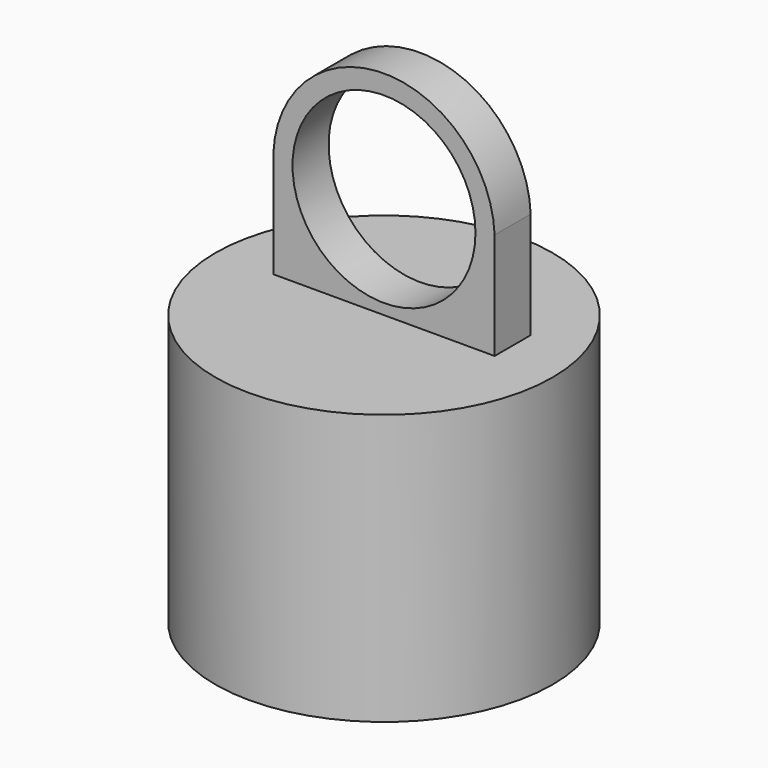
from build123d import *

# Parameters (mm, degrees)
F0_R     = 29.1968279335
F1_DEPTH = 46.8261539936
F2_W     = 38.307864219
F2_H     = 7.8112371266
F3_DEPTH = 36.9160473347
F4_R     = 15.8391842582
F5_DEPTH = 29.1978279335
F6_T     = -2.54


with BuildPart() as f1:
    # F0 (on Top) → F1 (new body)
    with BuildSketch(Plane.XY):
        Circle(F0_R)
    extrude(amount=F1_DEPTH)

    # F2 (on face) → F3 (join)
    with BuildSketch(Plane.XY.offset(46.8261539936)):
        with Locations((0, 3.9056185633)):
            Rectangle(F2_W, F2_H)
    extrude(amount=F3_DEPTH)

    # F4 (on face) → F5 (cut, through all)
    with BuildSketch(Plane.XZ):
        with Locations((0, 64.5071235189)):
            Circle(F4_R)
        with BuildLine():
            ThreePointArc((-19.1539321095, 65.2841776609), (0, 83.6768112679), (19.1539321095, 65.2841776609))
            Line((19.1539321095, 65.2841776609), (19.1539321095, 83.7422013283))
            Line((19.1539321095, 83.7422013283), (-19.1539321095, 83.7422013283))
            Line((-19.1539321095, 83.7422013283), (-19.1539321095, 65.2841776609))
        make_face()
    extrude(amount=-F5_DEPTH, mode=Mode.SUBTRACT)

    # F6
    f6_openings = [f1.faces().sort_by_distance(p)[0] for p in [
        (0, 0, 0),
    ]]
    offset(amount=F6_T, openings=f6_openings, kind=Kind.INTERSECTION)


solid = f1.part
